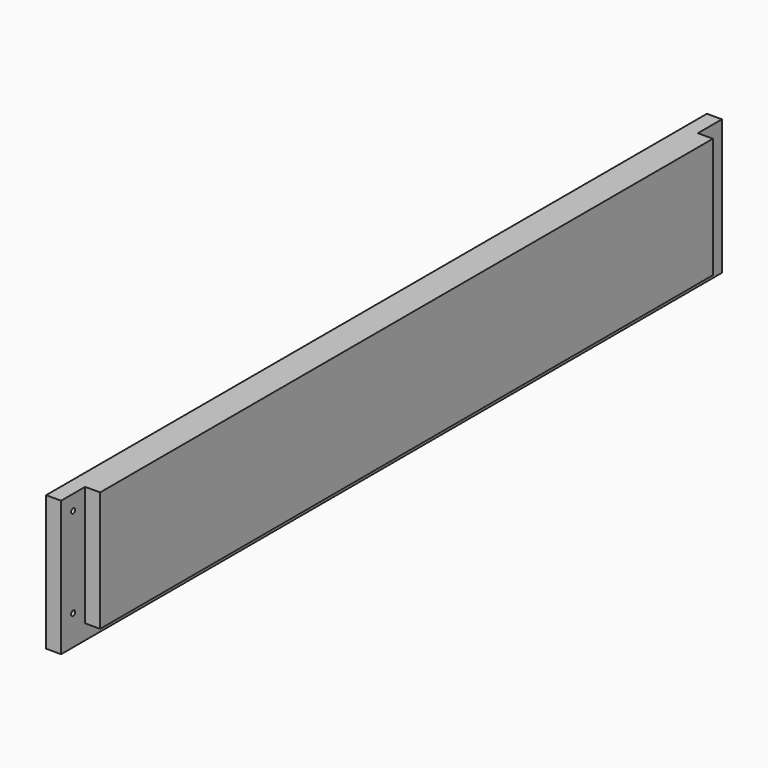
from build123d import *

# Parameters (mm, degrees)
F0_W     = 485.775
F0_H     = 76.2
F1_DEPTH = 9.525
F0_R     = 1.5875
F2_DEPTH = 9.525


with BuildPart() as f1:
    # F0 (on Right) → F1 (new body)
    with BuildSketch(Plane.YZ):
        with Locations((0, 4.7625)):
            Rectangle(F0_W, F0_H)
    extrude(amount=F1_DEPTH)

    # F0 (on Right) → F2 (join)
    with BuildSketch(Plane.YZ):
        Polygon((-261.9375, -42.8625), (261.9375, -42.8625), (261.9375, 42.8625), (242.8875, 42.8625), (242.8875, -33.3375), (-242.8875, -33.3375), (-242.8875, 42.8625), (-261.9375, 42.8625), align=None)
        with Locations((-252.4125, -23.8125)):
            Circle(F0_R, mode=Mode.SUBTRACT)
        with Locations((252.4125, -23.8125)):
            Circle(F0_R, mode=Mode.SUBTRACT)
        with Locations((-252.4125, 33.3375)):
            Circle(F0_R, mode=Mode.SUBTRACT)
        with Locations((252.4125, 33.3375)):
            Circle(F0_R, mode=Mode.SUBTRACT)
        with Locations((0, 4.7625)):
            Rectangle(F0_W, F0_H)
    extrude(amount=-F2_DEPTH)


solid = f1.part
